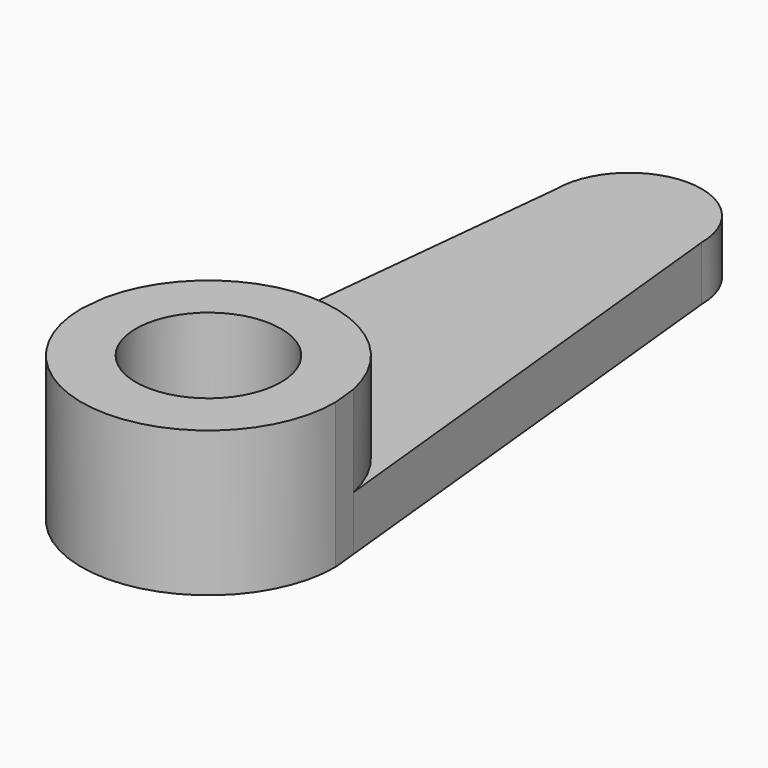
from build123d import *

# Parameters (mm, degrees)
F1_DEPTH = 1.5
F0_R     = 2
F2_DEPTH = 4


with BuildPart() as f1:
    # F0 (on Top) → F1 (new body)
    with BuildSketch(Plane.XY):
        with BuildLine():
            ThreePointArc((2, 14.5), (0, 16.5), (-2, 14.5))
            ThreePointArc((-2, 14.5), (0, 12.5), (2, 14.5))
        make_face()
        with BuildLine():
            Line((-2, 14.5), (-3.4258823529, 0.7164705882))
            ThreePointArc((-3.4258823529, 0.7164705882), (0, 3.5), (3.4258823529, 0.7164705882))
            Line((3.4258823529, 0.7164705882), (2, 14.5))
            ThreePointArc((2, 14.5), (0, 12.5), (-2, 14.5))
        make_face()
    extrude(amount=F1_DEPTH)

    # F0 (on Top) → F2 (join)
    with BuildSketch(Plane.XY):
        with BuildLine():
            Line((-3.4258823529, 0.7164705882), (-3.5, 0))
            ThreePointArc((-3.5, 0), (0, -3.5), (3.5, 0))
            Line((3.5, 0), (3.4258823529, 0.7164705882))
            ThreePointArc((3.4258823529, 0.7164705882), (0, 3.5), (-3.4258823529, 0.7164705882))
        make_face()
        Circle(F0_R, mode=Mode.SUBTRACT)
    extrude(amount=F2_DEPTH)


solid = f1.part
